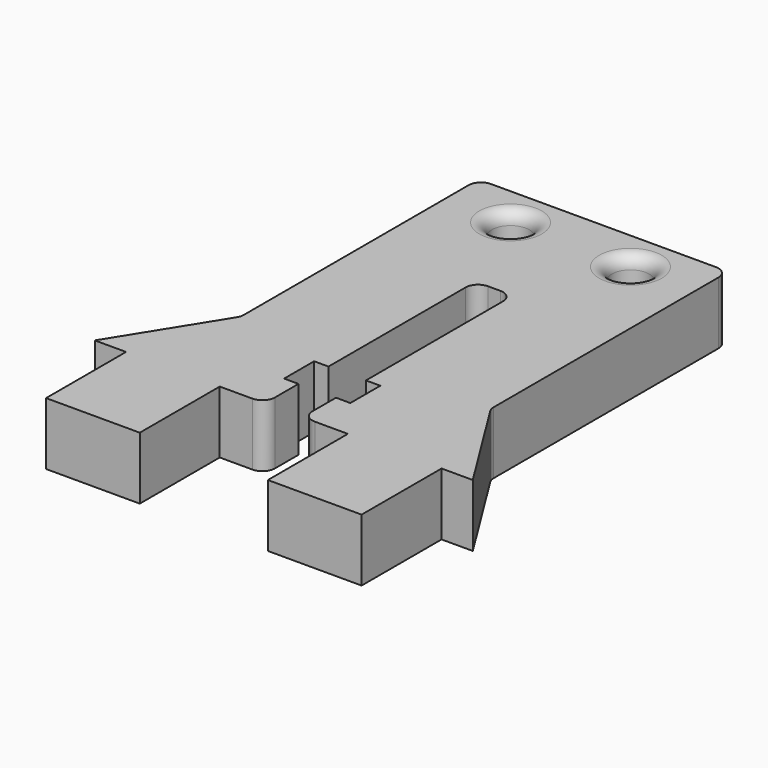
from build123d import *

# Parameters (mm, degrees)
F0_R     = 1.5
F1_DEPTH = 5
F2_R     = 1


with BuildPart() as f1:
    # F0 (on Top) → F1 (new body)
    with BuildSketch(Plane.XY):
        Polygon((-12.617519, -15.033584), (-12.617519, -23.033584), (-5.117519, -23.033584), (-5.117519, -15.033584), (-1.5, -15.033584), (-1.5, -11.676693), (-2.65, -11.676693), (-2.65, -8.676693), (-1.5, -8.676693), (-1.5, 6.040047), (1.5, 6.040047), (1.5, -8.676693), (2.65, -8.676693), (2.65, -11.676693), (1.5, -11.676693), (1.5, -15.033584), (5.137222, -15.033584), (5.137222, -23.033584), (12.637222, -23.033584), (12.637222, -15.033584), (15.137222, -15.033584), (10, -6.811039), (10, 16.966416), (-10, 16.966416), (-10, -6.811039), (-15.117519, -15.033584), align=None)
        with Locations((-4.8, 13.664421)):
            Circle(F0_R, mode=Mode.SUBTRACT)
        with Locations((4.8, 13.664421)):
            Circle(F0_R, mode=Mode.SUBTRACT)
    extrude(amount=F1_DEPTH)

    # F2
    f2_edges = [f1.edges().sort_by_distance(p)[0] for p in [
        (10, 16.966416, 2.5),
        (10, -6.811039, 2.5),
        (-10, -6.811039, 2.5),
        (-10, 16.966416, 2.5),
        (-6.3, 13.664421, 0),
        (3.3, 13.664421, 0),
        (3.3, 13.664421, 5),
        (-6.3, 13.664421, 5),
        (1.5, -15.033584, 2.5),
        (-1.5, -15.033584, 2.5),
        (1.5, 6.040047, 2.5),
        (-1.5, 6.040047, 2.5),
    ]]
    fillet(f2_edges, radius=F2_R)


solid = f1.part
